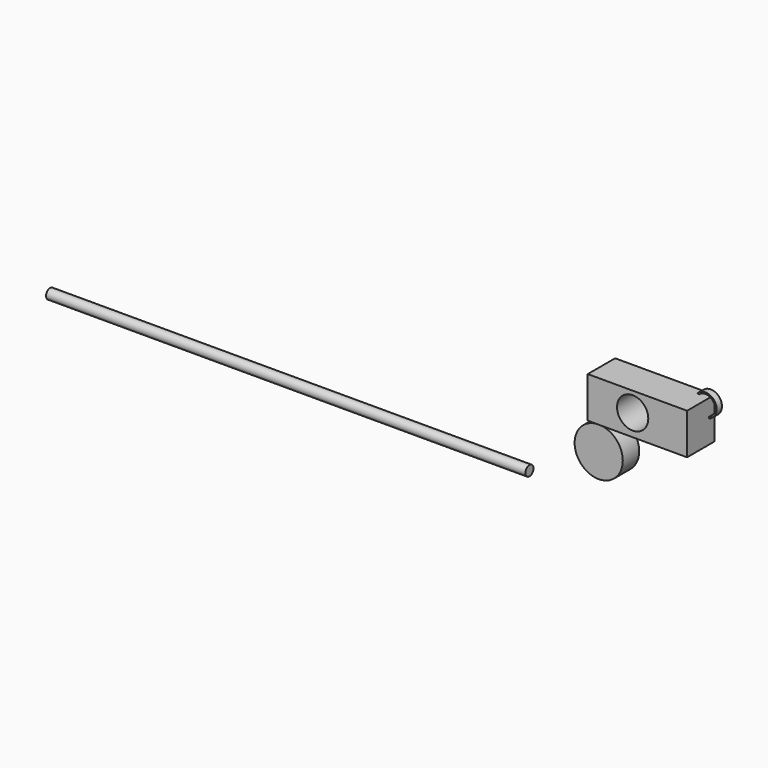
from build123d import *

# Parameters (mm, degrees)
F0_R     = 3.736256
F1_DEPTH = 355.854
F2_R     = 8.328542
F2_R_2   = 7.212929
F3_DEPTH = 4.826
F4_W     = 73.727727
F4_H     = 30.445471
F4_R     = 11.600518
F5_DEPTH = 25.4
F6_R     = 17.87369
F7_DEPTH = 15.24


with BuildPart() as f1:
    # F0 (on Right) → F1 (new body)
    with BuildSketch(Plane.YZ):
        with Locations((-79.484217, 13.780644)):
            Circle(F0_R)
    extrude(amount=-F1_DEPTH)


with BuildPart() as f3:
    # F2 (on Front) → F3 (new body)
    with BuildSketch(Plane.XZ):
        with Locations((70.953369, 49.366172)):
            Circle(F2_R)
        with Locations((70.953369, 49.366172)):
            Circle(F2_R_2, mode=Mode.SUBTRACT)
    extrude(amount=F3_DEPTH)

    # F4 (on Front) → F5 (join)
    with BuildSketch(Plane.XZ):
        with Locations((36.863864, 39.72197)):
            Rectangle(F4_W, F4_H)
        with Locations((33.33465, 40.418629)):
            Circle(F4_R, mode=Mode.SUBTRACT)
    extrude(amount=F5_DEPTH)


with BuildPart() as f7:
    # F6 (on Front) → F7 (new body)
    with BuildSketch(Plane.XZ):
        Circle(F6_R)
    extrude(amount=F7_DEPTH)


solid = Compound([f1.part, f3.part, f7.part])
